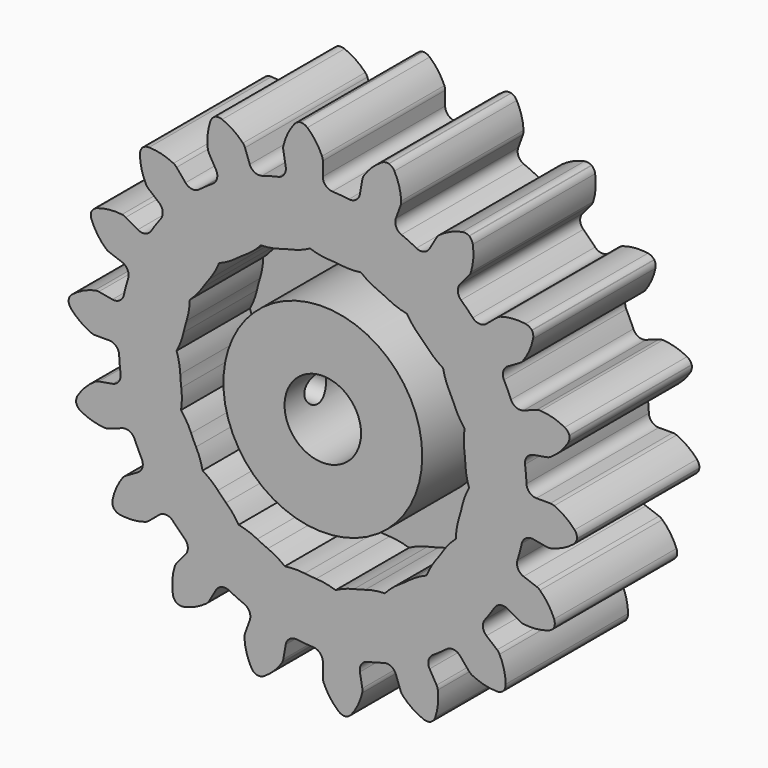
from build123d import *

# Parameters (mm, degrees)
F1_DEPTH = 12.7
F2_R     = 3.175
F3_DEPTH = 12.701
F4_T     = -5.08
F5_R     = 1.1303
F6_DEPTH = 9.525


with BuildPart() as f1:
    # F0 (on Front) → F1 (new body)
    with BuildSketch(Plane.XZ):
        with BuildLine():
            ThreePointArc((-3.0797196834, 17.4659582497), (-3.2056409493, 16.8649768064), (-3.7116884252, 16.517196973))
            ThreePointArc((-3.7116884252, 16.517196973), (-4.3815734964, 16.3522549058), (-5.0441820193, 16.1601563905))
            ThreePointArc((-5.0441820193, 16.1601563905), (-5.6563219057, 16.2083188233), (-6.0658636426, 16.6658233874))
            Line((-6.0658636426, 16.6658233874), (-6.4604760705, 17.7500121225))
            ThreePointArc((-6.4604760705, 17.7500121225), (-6.5329570164, 17.9000057853), (-6.6340767303, 18.0323930577))
            ThreePointArc((-6.6340767303, 18.0323930577), (-7.4297178414, 18.7125699595), (-8.354731797, 19.2025031972))
            ThreePointArc((-8.354731797, 19.2025031972), (-8.6470844689, 19.2603852123), (-8.9409381457, 19.2106818013))
            Line((-8.9409381457, 19.2106818013), (-8.9555996593, 19.2053454468))
            Line((-8.9555996593, 19.2053454468), (-8.9691117834, 19.1975442183))
            ThreePointArc((-8.9691117834, 19.1975442183), (-9.1960723077, 19.0043879788), (-9.3396527868, 18.7432269969))
            ThreePointArc((-9.3396527868, 18.7432269969), (-9.5589296621, 17.7197021817), (-9.549312174, 16.672996445))
            ThreePointArc((-9.549312174, 16.672996445), (-9.5128961389, 16.5104373517), (-9.444584181, 16.3584996578))
            Line((-9.444584181, 16.3584996578), (-8.8676994044, 15.3593059147))
            ThreePointArc((-8.8676994044, 15.3593059147), (-8.7804789295, 14.7515004778), (-9.1370602999, 14.2516159044))
            ThreePointArc((-9.1370602999, 14.2516159044), (-9.7101328486, 13.867506873), (-10.2670796263, 13.4603678537))
            ThreePointArc((-10.2670796263, 13.4603678537), (-10.8587754826, 13.2962615647), (-11.4000946072, 13.586103704))
            Line((-11.4000946072, 13.586103704), (-12.1417233804, 14.4699424588))
            ThreePointArc((-12.1417233804, 14.4699424588), (-12.2611340445, 14.5861004534), (-12.4014346073, 14.6759188173))
            ThreePointArc((-12.4014346073, 14.6759188173), (-13.3817268896, 15.042950746), (-14.418522714, 15.1869639883))
            ThreePointArc((-14.418522714, 15.1869639883), (-14.7130411775, 15.1413647881), (-14.9721737415, 14.9941549829))
            Line((-14.9721737415, 14.9941549829), (-14.9841259169, 14.9841259169))
            Line((-14.9841259169, 14.9841259169), (-14.9941549829, 14.9721737415))
            ThreePointArc((-14.9941549829, 14.9721737415), (-15.1413647881, 14.7130411775), (-15.1869639883, 14.418522714))
            ThreePointArc((-15.1869639883, 14.418522714), (-15.042950746, 13.3817268896), (-14.6759188173, 12.4014346073))
            ThreePointArc((-14.6759188173, 12.4014346073), (-14.5861004534, 12.2611340445), (-14.4699424588, 12.1417233804))
            Line((-14.4699424588, 12.1417233804), (-13.586103704, 11.4000946072))
            ThreePointArc((-13.586103704, 11.4000946072), (-13.2962615647, 10.8587754826), (-13.4603678537, 10.2670796263))
            ThreePointArc((-13.4603678537, 10.2670796263), (-13.867506873, 9.7101328486), (-14.2516159044, 9.1370602999))
            ThreePointArc((-14.2516159044, 9.1370602999), (-14.7515004778, 8.7804789295), (-15.3593059147, 8.8676994044))
            Line((-15.3593059147, 8.8676994044), (-16.3584996578, 9.444584181))
            ThreePointArc((-16.3584996578, 9.444584181), (-16.5104373517, 9.5128961389), (-16.672996445, 9.549312174))
            ThreePointArc((-16.672996445, 9.549312174), (-17.7197021817, 9.5589296621), (-18.7432269969, 9.3396527868))
            ThreePointArc((-18.7432269969, 9.3396527868), (-19.0043879788, 9.1960723077), (-19.1975442183, 8.9691117834))
            Line((-19.1975442183, 8.9691117834), (-19.2053454468, 8.9555996593))
            Line((-19.2053454468, 8.9555996593), (-19.2106818013, 8.9409381457))
            ThreePointArc((-19.2106818013, 8.9409381457), (-19.2603852123, 8.6470844689), (-19.2025031972, 8.354731797))
            ThreePointArc((-19.2025031972, 8.354731797), (-18.7125699595, 7.4297178414), (-18.0323930577, 6.6340767303))
            ThreePointArc((-18.0323930577, 6.6340767303), (-17.9000057853, 6.5329570164), (-17.7500121225, 6.4604760705))
            Line((-17.7500121225, 6.4604760705), (-16.6658233874, 6.0658636426))
            ThreePointArc((-16.6658233874, 6.0658636426), (-16.2083188233, 5.6563219057), (-16.1601563905, 5.0441820193))
            ThreePointArc((-16.1601563905, 5.0441820193), (-16.3522549058, 4.3815734964), (-16.517196973, 3.7116884252))
            ThreePointArc((-16.517196973, 3.7116884252), (-16.8649768064, 3.2056409493), (-17.4659582497, 3.0797196834))
            Line((-17.4659582497, 3.0797196834), (-18.6021994508, 3.2800696637))
            ThreePointArc((-18.6021994508, 3.2800696637), (-18.7683382462, 3.2922961546), (-18.9335488441, 3.2709175497))
            ThreePointArc((-18.9335488441, 3.2709175497), (-19.9204198757, 2.9219605862), (-20.8072214835, 2.3658416206))
            ThreePointArc((-20.8072214835, 2.3658416206), (-21.0035251149, 2.1415977874), (-21.1074075368, 1.8622613328))
            Line((-21.1074075368, 1.8622613328), (-21.110116875, 1.8468959123))
            Line((-21.110116875, 1.8468959123), (-21.110116875, 1.8312934553))
            ThreePointArc((-21.110116875, 1.8312934553), (-21.0563189269, 1.5381617559), (-20.9019371216, 1.2832369226))
            ThreePointArc((-20.9019371216, 1.2832369226), (-20.1251770679, 0.5815751705), (-19.2138945656, 0.0665512911))
            ThreePointArc((-19.2138945656, 0.0665512911), (-19.0549062436, 0.016808956), (-18.889168362, 0))
            Line((-18.889168362, 0), (-17.7353988089, 0))
            ThreePointArc((-17.7353988089, 0), (-17.1654136224, -0.2283675714), (-16.9107915681, -0.7871183834))
            ThreePointArc((-16.9107915681, -0.7871183834), (-16.8646796635, -1.4754682845), (-16.7905603187, -2.1613678522))
            ThreePointArc((-16.7905603187, -2.1613678522), (-16.9442880317, -2.7558446396), (-17.4659582497, -3.0797196834))
            Line((-17.4659582497, -3.0797196834), (-18.6021994508, -3.2800696637))
            ThreePointArc((-18.6021994508, -3.2800696637), (-18.7625005571, -3.325403335), (-18.9104358233, -3.4019980047))
            ThreePointArc((-18.9104358233, -3.4019980047), (-19.7184409387, -4.0674400599), (-20.3615579773, -4.8933249612))
            ThreePointArc((-20.3615579773, -4.8933249612), (-20.4693271432, -5.1711850326), (-20.4714059942, -5.4692053185))
            Line((-20.4714059942, -5.4692053185), (-20.468696656, -5.4845707391))
            Line((-20.468696656, -5.4845707391), (-20.4633603015, -5.4992322527))
            ThreePointArc((-20.4633603015, -5.4992322527), (-20.3125498207, -5.7562859657), (-20.0802889495, -5.9430352633))
            ThreePointArc((-20.0802889495, -5.9430352633), (-19.1103908059, -6.3367140491), (-18.0779168219, -6.509001216))
            ThreePointArc((-18.0779168219, -6.509001216), (-17.9115037884, -6.5013665126), (-17.7500121225, -6.4604760705))
            Line((-17.7500121225, -6.4604760705), (-16.6658233874, -6.0658636426))
            ThreePointArc((-16.6658233874, -6.0658636426), (-16.0521062042, -6.0855125491), (-15.6217357059, -6.5234806925))
            ThreePointArc((-15.6217357059, -6.5234806925), (-15.3429751575, -7.1545468148), (-15.0387342878, -7.7737312682))
            ThreePointArc((-15.0387342878, -7.7737312682), (-14.9798680492, -8.384934693), (-15.3593059147, -8.8676994044))
            Line((-15.3593059147, -8.8676994044), (-16.3584996578, -9.444584181))
            ThreePointArc((-16.3584996578, -9.444584181), (-16.4936283957, -9.5420101047), (-16.6064451538, -9.6645823915))
            ThreePointArc((-16.6064451538, -9.6645823915), (-17.1381270112, -10.5662474058), (-17.4599900744, -11.5622843348))
            ThreePointArc((-17.4599900744, -11.5622843348), (-17.4662262229, -11.8602466192), (-17.366250763, -12.1410050916))
            Line((-17.366250763, -12.1410050916), (-17.3584495345, -12.1545172157))
            Line((-17.3584495345, -12.1545172157), (-17.3484204685, -12.1664693911))
            ThreePointArc((-17.3484204685, -12.1664693911), (-17.1187874248, -12.3564406461), (-16.8366615766, -12.4524896865))
            ThreePointArc((-16.8366615766, -12.4524896865), (-15.7906093733, -12.4907020344), (-14.761475508, -12.2994721138))
            ThreePointArc((-14.761475508, -12.2994721138), (-14.6077096307, -12.2353812298), (-14.4699424588, -12.1417233804))
            Line((-14.4699424588, -12.1417233804), (-13.586103704, -11.4000946072))
            ThreePointArc((-13.586103704, -11.4000946072), (-13.0026778739, -11.2086549007), (-12.4484679653, -11.4730149537))
            ThreePointArc((-12.4484679653, -11.4730149537), (-11.9706814094, -11.9706814094), (-11.4730149537, -12.4484679653))
            ThreePointArc((-11.4730149537, -12.4484679653), (-11.2086549007, -13.0026778739), (-11.4000946072, -13.586103704))
            Line((-11.4000946072, -13.586103704), (-12.1417233804, -14.4699424588))
            ThreePointArc((-12.1417233804, -14.4699424588), (-12.2353812298, -14.6077096307), (-12.2994721138, -14.761475508))
            ThreePointArc((-12.2994721138, -14.761475508), (-12.4907020344, -15.7906093733), (-12.4524896865, -16.8366615766))
            ThreePointArc((-12.4524896865, -16.8366615766), (-12.3564406461, -17.1187874248), (-12.1664693911, -17.3484204685))
            Line((-12.1664693911, -17.3484204685), (-12.1545172157, -17.3584495345))
            Line((-12.1545172157, -17.3584495345), (-12.1410050916, -17.366250763))
            ThreePointArc((-12.1410050916, -17.366250763), (-11.8602466192, -17.4662262229), (-11.5622843348, -17.4599900744))
            ThreePointArc((-11.5622843348, -17.4599900744), (-10.5662474058, -17.1381270112), (-9.6645823915, -16.6064451538))
            ThreePointArc((-9.6645823915, -16.6064451538), (-9.5420101047, -16.4936283957), (-9.444584181, -16.3584996578))
            Line((-9.444584181, -16.3584996578), (-8.8676994044, -15.3593059147))
            ThreePointArc((-8.8676994044, -15.3593059147), (-8.384934693, -14.9798680492), (-7.7737312682, -15.0387342878))
            ThreePointArc((-7.7737312682, -15.0387342878), (-7.1545468148, -15.3429751575), (-6.5234806925, -15.6217357059))
            ThreePointArc((-6.5234806925, -15.6217357059), (-6.0855125491, -16.0521062042), (-6.0658636426, -16.6658233874))
            Line((-6.0658636426, -16.6658233874), (-6.4604760705, -17.7500121225))
            ThreePointArc((-6.4604760705, -17.7500121225), (-6.5013665126, -17.9115037884), (-6.509001216, -18.0779168219))
            ThreePointArc((-6.509001216, -18.0779168219), (-6.3367140491, -19.1103908059), (-5.9430352633, -20.0802889495))
            ThreePointArc((-5.9430352633, -20.0802889495), (-5.7562859657, -20.3125498207), (-5.4992322527, -20.4633603015))
            Line((-5.4992322527, -20.4633603015), (-5.4845707391, -20.468696656))
            Line((-5.4845707391, -20.468696656), (-5.4692053185, -20.4714059942))
            ThreePointArc((-5.4692053185, -20.4714059942), (-5.1711850326, -20.4693271432), (-4.8933249612, -20.3615579773))
            ThreePointArc((-4.8933249612, -20.3615579773), (-4.0674400599, -19.7184409387), (-3.4019980047, -18.9104358233))
            ThreePointArc((-3.4019980047, -18.9104358233), (-3.325403335, -18.7625005571), (-3.2800696637, -18.6021994508))
            Line((-3.2800696637, -18.6021994508), (-3.0797196834, -17.4659582497))
            ThreePointArc((-3.0797196834, -17.4659582497), (-2.7558446396, -16.9442880317), (-2.1613678522, -16.7905603187))
            ThreePointArc((-2.1613678522, -16.7905603187), (-1.4754682845, -16.8646796635), (-0.7871183834, -16.9107915681))
            ThreePointArc((-0.7871183834, -16.9107915681), (-0.2283675714, -17.1654136224), (0, -17.7353988089))
            Line((0, -17.7353988089), (0, -18.889168362))
            ThreePointArc((0, -18.889168362), (0.016808956, -19.0549062436), (0.0665512911, -19.2138945656))
            ThreePointArc((0.0665512911, -19.2138945656), (0.5815751705, -20.1251770679), (1.2832369226, -20.9019371216))
            ThreePointArc((1.2832369226, -20.9019371216), (1.5381617559, -21.0563189269), (1.8312934553, -21.110116875))
            Line((1.8312934553, -21.110116875), (1.8468959123, -21.110116875))
            Line((1.8468959123, -21.110116875), (1.8622613328, -21.1074075368))
            ThreePointArc((1.8622613328, -21.1074075368), (2.1415977874, -21.0035251149), (2.3658416206, -20.8072214835))
            ThreePointArc((2.3658416206, -20.8072214835), (2.9219605862, -19.9204198757), (3.2709175497, -18.9335488441))
            ThreePointArc((3.2709175497, -18.9335488441), (3.2922961546, -18.7683382462), (3.2800696637, -18.6021994508))
            Line((3.2800696637, -18.6021994508), (3.0797196834, -17.4659582497))
            ThreePointArc((3.0797196834, -17.4659582497), (3.2056409493, -16.8649768064), (3.7116884252, -16.517196973))
            ThreePointArc((3.7116884252, -16.517196973), (4.3815734964, -16.3522549058), (5.0441820193, -16.1601563905))
            ThreePointArc((5.0441820193, -16.1601563905), (5.6563219057, -16.2083188233), (6.0658636426, -16.6658233874))
            Line((6.0658636426, -16.6658233874), (6.4604760705, -17.7500121225))
            ThreePointArc((6.4604760705, -17.7500121225), (6.5329570164, -17.9000057853), (6.6340767303, -18.0323930577))
            ThreePointArc((6.6340767303, -18.0323930577), (7.4297178414, -18.7125699595), (8.354731797, -19.2025031972))
            ThreePointArc((8.354731797, -19.2025031972), (8.6470844689, -19.2603852123), (8.9409381457, -19.2106818013))
            Line((8.9409381457, -19.2106818013), (8.9555996593, -19.2053454468))
            Line((8.9555996593, -19.2053454468), (8.9691117834, -19.1975442183))
            ThreePointArc((8.9691117834, -19.1975442183), (9.1960723077, -19.0043879788), (9.3396527868, -18.7432269969))
            ThreePointArc((9.3396527868, -18.7432269969), (9.5589296621, -17.7197021817), (9.549312174, -16.672996445))
            ThreePointArc((9.549312174, -16.672996445), (9.5128961389, -16.5104373517), (9.444584181, -16.3584996578))
            Line((9.444584181, -16.3584996578), (8.8676994044, -15.3593059147))
            ThreePointArc((8.8676994044, -15.3593059147), (8.7804789295, -14.7515004778), (9.1370602999, -14.2516159044))
            ThreePointArc((9.1370602999, -14.2516159044), (9.7101328486, -13.867506873), (10.2670796263, -13.4603678537))
            ThreePointArc((10.2670796263, -13.4603678537), (10.8587754826, -13.2962615647), (11.4000946072, -13.586103704))
            Line((11.4000946072, -13.586103704), (12.1417233804, -14.4699424588))
            ThreePointArc((12.1417233804, -14.4699424588), (12.2611340445, -14.5861004534), (12.4014346073, -14.6759188173))
            ThreePointArc((12.4014346073, -14.6759188173), (13.3817268896, -15.042950746), (14.418522714, -15.1869639883))
            ThreePointArc((14.418522714, -15.1869639883), (14.7130411775, -15.1413647881), (14.9721737415, -14.9941549829))
            Line((14.9721737415, -14.9941549829), (14.9841259169, -14.9841259169))
            Line((14.9841259169, -14.9841259169), (14.9941549829, -14.9721737415))
            ThreePointArc((14.9941549829, -14.9721737415), (15.1413647881, -14.7130411775), (15.1869639883, -14.418522714))
            ThreePointArc((15.1869639883, -14.418522714), (15.042950746, -13.3817268896), (14.6759188173, -12.4014346073))
            ThreePointArc((14.6759188173, -12.4014346073), (14.5861004534, -12.2611340445), (14.4699424588, -12.1417233804))
            Line((14.4699424588, -12.1417233804), (13.586103704, -11.4000946072))
            ThreePointArc((13.586103704, -11.4000946072), (13.2962615647, -10.8587754826), (13.4603678537, -10.2670796263))
            ThreePointArc((13.4603678537, -10.2670796263), (13.867506873, -9.7101328486), (14.2516159044, -9.1370602999))
            ThreePointArc((14.2516159044, -9.1370602999), (14.7515004778, -8.7804789295), (15.3593059147, -8.8676994044))
            Line((15.3593059147, -8.8676994044), (16.3584996578, -9.444584181))
            ThreePointArc((16.3584996578, -9.444584181), (16.5104373517, -9.5128961389), (16.672996445, -9.549312174))
            ThreePointArc((16.672996445, -9.549312174), (17.7197021817, -9.5589296621), (18.7432269969, -9.3396527868))
            ThreePointArc((18.7432269969, -9.3396527868), (19.0043879788, -9.1960723077), (19.1975442183, -8.9691117834))
            Line((19.1975442183, -8.9691117834), (19.2053454468, -8.9555996593))
            Line((19.2053454468, -8.9555996593), (19.2106818013, -8.9409381457))
            ThreePointArc((19.2106818013, -8.9409381457), (19.2603852123, -8.6470844689), (19.2025031972, -8.354731797))
            ThreePointArc((19.2025031972, -8.354731797), (18.7125699595, -7.4297178414), (18.0323930577, -6.6340767303))
            ThreePointArc((18.0323930577, -6.6340767303), (17.9000057853, -6.5329570164), (17.7500121225, -6.4604760705))
            Line((17.7500121225, -6.4604760705), (16.6658233874, -6.0658636426))
            ThreePointArc((16.6658233874, -6.0658636426), (16.2083188233, -5.6563219057), (16.1601563905, -5.0441820193))
            ThreePointArc((16.1601563905, -5.0441820193), (16.3522549058, -4.3815734964), (16.517196973, -3.7116884252))
            ThreePointArc((16.517196973, -3.7116884252), (16.8649768064, -3.2056409493), (17.4659582497, -3.0797196834))
            Line((17.4659582497, -3.0797196834), (18.6021994508, -3.2800696637))
            ThreePointArc((18.6021994508, -3.2800696637), (18.7683382462, -3.2922961546), (18.9335488441, -3.2709175497))
            ThreePointArc((18.9335488441, -3.2709175497), (19.9204198757, -2.9219605862), (20.8072214835, -2.3658416206))
            ThreePointArc((20.8072214835, -2.3658416206), (21.0035251149, -2.1415977874), (21.1074075368, -1.8622613328))
            Line((21.1074075368, -1.8622613328), (21.110116875, -1.8468959123))
            Line((21.110116875, -1.8468959123), (21.110116875, -1.8312934553))
            ThreePointArc((21.110116875, -1.8312934553), (21.0563189269, -1.5381617559), (20.9019371216, -1.2832369226))
            ThreePointArc((20.9019371216, -1.2832369226), (20.1251770679, -0.5815751705), (19.2138945656, -0.0665512911))
            ThreePointArc((19.2138945656, -0.0665512911), (19.0549062436, -0.016808956), (18.889168362, 0))
            Line((18.889168362, 0), (17.7353988089, 0))
            ThreePointArc((17.7353988089, 0), (17.1654136224, 0.2283675714), (16.9107915681, 0.7871183834))
            ThreePointArc((16.9107915681, 0.7871183834), (16.8646796635, 1.4754682845), (16.7905603187, 2.1613678522))
            ThreePointArc((16.7905603187, 2.1613678522), (16.9442880317, 2.7558446396), (17.4659582497, 3.0797196834))
            Line((17.4659582497, 3.0797196834), (18.6021994508, 3.2800696637))
            ThreePointArc((18.6021994508, 3.2800696637), (18.7625005571, 3.325403335), (18.9104358233, 3.4019980047))
            ThreePointArc((18.9104358233, 3.4019980047), (19.7184409387, 4.0674400599), (20.3615579773, 4.8933249612))
            ThreePointArc((20.3615579773, 4.8933249612), (20.4693271432, 5.1711850326), (20.4714059942, 5.4692053185))
            Line((20.4714059942, 5.4692053185), (20.468696656, 5.4845707391))
            Line((20.468696656, 5.4845707391), (20.4633603015, 5.4992322527))
            ThreePointArc((20.4633603015, 5.4992322527), (20.3125498207, 5.7562859657), (20.0802889495, 5.9430352633))
            ThreePointArc((20.0802889495, 5.9430352633), (19.1103908059, 6.3367140491), (18.0779168219, 6.509001216))
            ThreePointArc((18.0779168219, 6.509001216), (17.9115037884, 6.5013665126), (17.7500121225, 6.4604760705))
            Line((17.7500121225, 6.4604760705), (16.6658233874, 6.0658636426))
            ThreePointArc((16.6658233874, 6.0658636426), (16.0521062042, 6.0855125491), (15.6217357059, 6.5234806925))
            ThreePointArc((15.6217357059, 6.5234806925), (15.3429751575, 7.1545468148), (15.0387342878, 7.7737312682))
            ThreePointArc((15.0387342878, 7.7737312682), (14.9798680492, 8.384934693), (15.3593059147, 8.8676994044))
            Line((15.3593059147, 8.8676994044), (16.3584996578, 9.444584181))
            ThreePointArc((16.3584996578, 9.444584181), (16.4936283957, 9.5420101047), (16.6064451538, 9.6645823915))
            ThreePointArc((16.6064451538, 9.6645823915), (17.1381270112, 10.5662474058), (17.4599900744, 11.5622843348))
            ThreePointArc((17.4599900744, 11.5622843348), (17.4662262229, 11.8602466192), (17.366250763, 12.1410050916))
            Line((17.366250763, 12.1410050916), (17.3584495345, 12.1545172157))
            Line((17.3584495345, 12.1545172157), (17.3484204685, 12.1664693911))
            ThreePointArc((17.3484204685, 12.1664693911), (17.1187874248, 12.3564406461), (16.8366615766, 12.4524896865))
            ThreePointArc((16.8366615766, 12.4524896865), (15.7906093733, 12.4907020344), (14.761475508, 12.2994721138))
            ThreePointArc((14.761475508, 12.2994721138), (14.6077096307, 12.2353812298), (14.4699424588, 12.1417233804))
            Line((14.4699424588, 12.1417233804), (13.586103704, 11.4000946072))
            ThreePointArc((13.586103704, 11.4000946072), (13.0026778739, 11.2086549007), (12.4484679653, 11.4730149537))
            ThreePointArc((12.4484679653, 11.4730149537), (11.9706814094, 11.9706814094), (11.4730149537, 12.4484679653))
            ThreePointArc((11.4730149537, 12.4484679653), (11.2086549007, 13.0026778739), (11.4000946072, 13.586103704))
            Line((11.4000946072, 13.586103704), (12.1417233804, 14.4699424588))
            ThreePointArc((12.1417233804, 14.4699424588), (12.2353812298, 14.6077096307), (12.2994721138, 14.761475508))
            ThreePointArc((12.2994721138, 14.761475508), (12.4907020344, 15.7906093733), (12.4524896865, 16.8366615766))
            ThreePointArc((12.4524896865, 16.8366615766), (12.3564406461, 17.1187874248), (12.1664693911, 17.3484204685))
            Line((12.1664693911, 17.3484204685), (12.1545172157, 17.3584495345))
            Line((12.1545172157, 17.3584495345), (12.1410050916, 17.366250763))
            ThreePointArc((12.1410050916, 17.366250763), (11.8602466192, 17.4662262229), (11.5622843348, 17.4599900744))
            ThreePointArc((11.5622843348, 17.4599900744), (10.5662474058, 17.1381270112), (9.6645823915, 16.6064451538))
            ThreePointArc((9.6645823915, 16.6064451538), (9.5420101047, 16.4936283957), (9.444584181, 16.3584996578))
            Line((9.444584181, 16.3584996578), (8.8676994044, 15.3593059147))
            ThreePointArc((8.8676994044, 15.3593059147), (8.384934693, 14.9798680492), (7.7737312682, 15.0387342878))
            ThreePointArc((7.7737312682, 15.0387342878), (7.1545468148, 15.3429751575), (6.5234806925, 15.6217357059))
            ThreePointArc((6.5234806925, 15.6217357059), (6.0855125491, 16.0521062042), (6.0658636426, 16.6658233874))
            Line((6.0658636426, 16.6658233874), (6.4604760705, 17.7500121225))
            ThreePointArc((6.4604760705, 17.7500121225), (6.5013665126, 17.9115037884), (6.509001216, 18.0779168219))
            ThreePointArc((6.509001216, 18.0779168219), (6.3367140491, 19.1103908059), (5.9430352633, 20.0802889495))
            ThreePointArc((5.9430352633, 20.0802889495), (5.7562859657, 20.3125498207), (5.4992322527, 20.4633603015))
            Line((5.4992322527, 20.4633603015), (5.4845707391, 20.468696656))
            Line((5.4845707391, 20.468696656), (5.4692053185, 20.4714059942))
            ThreePointArc((5.4692053185, 20.4714059942), (5.1711850326, 20.4693271432), (4.8933249612, 20.3615579773))
            ThreePointArc((4.8933249612, 20.3615579773), (4.0674400599, 19.7184409387), (3.4019980047, 18.9104358233))
            ThreePointArc((3.4019980047, 18.9104358233), (3.325403335, 18.7625005571), (3.2800696637, 18.6021994508))
            Line((3.2800696637, 18.6021994508), (3.0797196834, 17.4659582497))
            ThreePointArc((3.0797196834, 17.4659582497), (2.7558446396, 16.9442880317), (2.1613678522, 16.7905603187))
            ThreePointArc((2.1613678522, 16.7905603187), (1.4754682845, 16.8646796635), (0.7871183834, 16.9107915681))
            ThreePointArc((0.7871183834, 16.9107915681), (0.2283675714, 17.1654136224), (0, 17.7353988089))
            Line((0, 17.7353988089), (0, 18.889168362))
            ThreePointArc((0, 18.889168362), (-0.016808956, 19.0549062436), (-0.0665512911, 19.2138945656))
            ThreePointArc((-0.0665512911, 19.2138945656), (-0.5815751705, 20.1251770679), (-1.2832369226, 20.9019371216))
            ThreePointArc((-1.2832369226, 20.9019371216), (-1.5381617559, 21.0563189269), (-1.8312934553, 21.110116875))
            Line((-1.8312934553, 21.110116875), (-1.8468959123, 21.110116875))
            Line((-1.8468959123, 21.110116875), (-1.8622613328, 21.1074075368))
            ThreePointArc((-1.8622613328, 21.1074075368), (-2.1415977874, 21.0035251149), (-2.3658416206, 20.8072214835))
            ThreePointArc((-2.3658416206, 20.8072214835), (-2.9219605862, 19.9204198757), (-3.2709175497, 18.9335488441))
            ThreePointArc((-3.2709175497, 18.9335488441), (-3.2922961546, 18.7683382462), (-3.2800696637, 18.6021994508))
            Line((-3.2800696637, 18.6021994508), (-3.0797196834, 17.4659582497))
        make_face()
    extrude(amount=F1_DEPTH)

    # F2 (on face) → F3 (cut, through all)
    with BuildSketch(Plane.XZ.offset(12.7)):
        Circle(F2_R)
    extrude(amount=-F3_DEPTH, mode=Mode.SUBTRACT)

    # F4
    f4_openings = [f1.faces().sort_by_distance(p)[0] for p in [
        (-2.384317, -12.7, 19.660711),
    ]]
    offset(amount=F4_T, openings=f4_openings)

    # F5 (on Right) → F6 (cut)
    with BuildSketch(Plane.YZ):
        with Locations((-9.525, 0)):
            Circle(F5_R)
    extrude(amount=-F6_DEPTH, mode=Mode.SUBTRACT)


solid = f1.part
